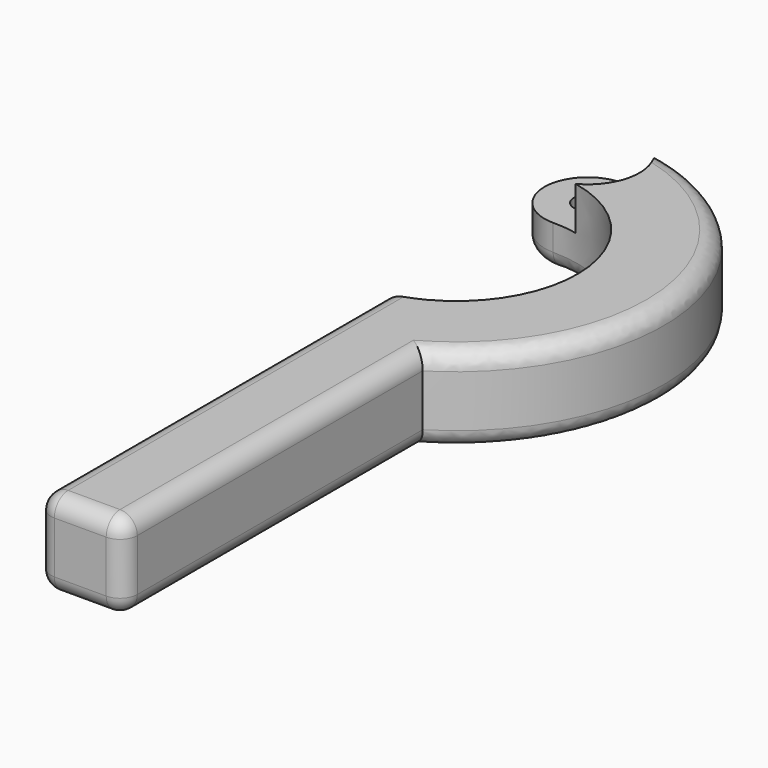
from build123d import *

# Parameters (mm, degrees)
F2_W     = 10
F2_H     = 10
F4_R     = 5
F5_DEPTH = 5
F6_R     = 6
F7_DEPTH = 5.0010001
F8_R     = 1.6
F9_DEPTH = 10.0010001
F10_R    = 2


with BuildPart() as f3:
    # F3: sweep along a path in F0
    with BuildLine(Plane.XY) as f3_path:
        ThreePointArc((0, 14), (13.943630847, 1.2550533066), (2.5, -13.774977314))
        Line((2.5, -13.774977314), (2.5, -63.774977314))
    # F2 (on plane+point) → F3 (sweep)
    with BuildSketch(Plane.XZ.offset(63.774977314)):
        with Locations((7.5, 5)):
            Rectangle(F2_W, F2_H)
    sweep(path=f3_path.line, transition=Transition.RIGHT)

    # F4 (on Top) → F5 (join)
    with BuildSketch(Plane.XY):
        with Locations((0, 19)):
            Circle(F4_R)
    extrude(amount=F5_DEPTH)

    # F6 (on face) → F7 (cut, through all)
    with BuildSketch(Plane.XY.offset(5)):
        with Locations((0, 19)):
            Circle(F6_R)
    extrude(amount=F7_DEPTH, mode=Mode.SUBTRACT)

    # F8 (on Top) → F9 (cut, through all)
    with BuildSketch(Plane.XY):
        with Locations((0, 19)):
            Circle(F8_R)
    extrude(amount=F9_DEPTH, mode=Mode.SUBTRACT)

    # F10
    f10_edges = [f3.edges().sort_by_distance(p)[0] for p in [
        (2.5, -38.774977, 10),
        (2.5, -38.774977, 0),
        (2.5, -63.774977, 5),
        (12.5, -63.774977, 5),
        (12.5, -42.131389, 10),
        (23.539652, 4.67812, 10),
        (12.5, -42.131389, 0),
        (7.5, -63.774977, 0),
        (7.5, -63.774977, 10),
        (13.943631, 1.255053, 0),
    ]]
    fillet(f10_edges, radius=F10_R)


solid = f3.part
